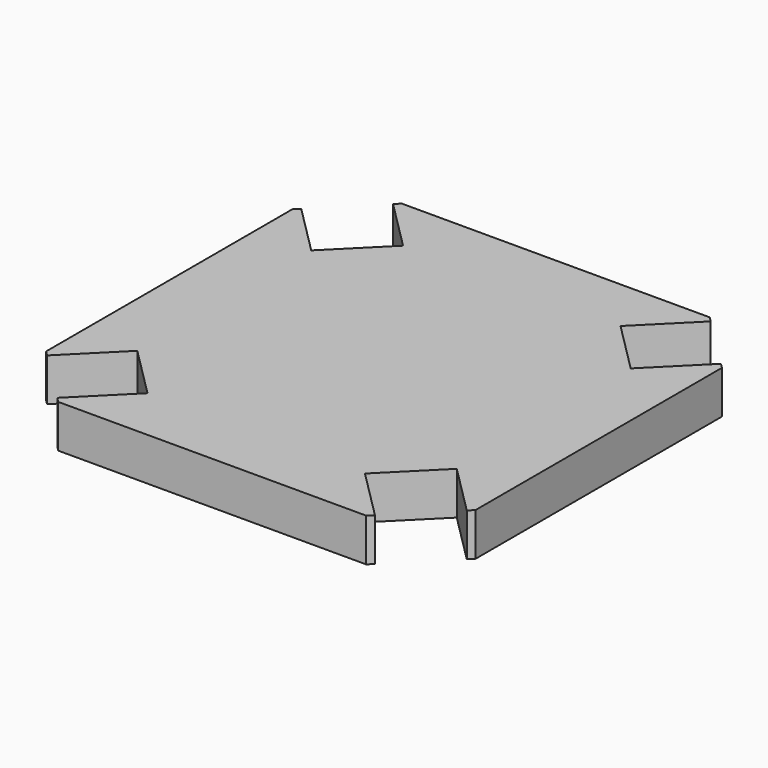
from build123d import *

# Parameters (mm, degrees)
F1_DEPTH = 10
F2_T     = -1


with BuildPart() as f1:
    # F0 (on Top) → F1 (new body)
    with BuildSketch(Plane.XY):
        Polygon((36.9892352262, 48.8686291501), (35.8578643763, 50), (-35.8578643763, 50), (-36.9892352262, 48.8686291501), (-25.3149022688, 37.1942961927), (-37.1942961927, 25.3149022688), (-48.8686291501, 36.9892352262), (-50, 35.8578643763), (-50, -35.8578643763), (-48.8686291501, -36.9892352262), (-37.1942961927, -25.3149022688), (-25.3149022688, -37.1942961927), (-36.9892352262, -48.8686291501), (-35.8578643763, -50), (35.8578643763, -50), (36.9892352262, -48.8686291501), (25.3149022688, -37.1942961927), (37.1942961927, -25.3149022688), (48.8686291501, -36.9892352262), (50, -35.8578643763), (50, 35.8578643763), (48.8686291501, 36.9892352262), (37.1942961927, 25.3149022688), (25.3149022688, 37.1942961927), align=None)
    extrude(amount=-F1_DEPTH)

    # F2
    f2_openings = [f1.faces().sort_by_distance(p)[0] for p in [
        (0, 0, -10),
    ]]
    offset(amount=F2_T, openings=f2_openings, kind=Kind.INTERSECTION)


solid = f1.part
